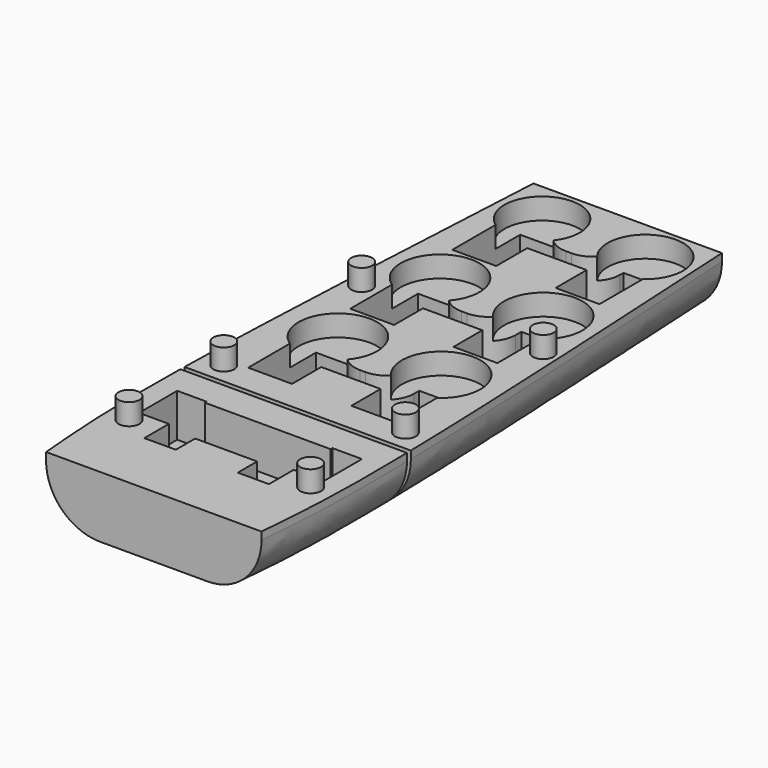
from build123d import *

# Parameters (mm, degrees)
F1_DEPTH  = 29
F2_R      = 25.4
F3_W      = 20.7
F3_H      = 40
F4_DEPTH  = 23
F5_R      = 17.78
F5_R_2    = 18.542
F6_DEPTH  = 10
F8_W      = 47.9230657122
F8_H      = 7
F8_W_2    = 50.6153731757
F8_W_3    = 51.6922955662
F9_DEPTH  = 20
F10_R     = 12.7
F11_W     = 137.5804170966
F11_H     = 2.3604482412
F12_DEPTH = 508
F13_R     = 4.953
F14_DEPTH = 10
F15_W     = 14.8590133688
F15_H     = 11.43
F16_DEPTH = 20.32


with BuildPart() as f1:
    # F0 (on Top) → F1 (new body)
    with BuildSketch(Plane.XY):
        with BuildLine():
            Line((44.45, 139.7), (-44.45, 139.7))
            add(Edge.make_bspline(
                [(-44.45, 139.7), (-49.1512728397, 53.7712988346), (-56.2494431916, -75.9673017068), (-52.1756359634, -123.6115688092), (-50.8, -139.7)],
                knots=[0, 0, 0, 0, 0.6623217825, 1, 1, 1, 1], degree=3))
            Line((-50.8, -139.7), (0, -139.7))
            Line((0, -139.7), (50.8, -139.7))
            add(Edge.make_bspline(
                [(44.45, 139.7), (49.1512728397, 53.7712988346), (56.2494431916, -75.9673017068), (52.1756359634, -123.6115688092), (50.8, -139.7)],
                knots=[0, 0, 0, 0, 0.6623217825, 1, 1, 1, 1], degree=3))
        make_face()
    extrude(amount=F1_DEPTH)

    # F2
    f2_edges = [f1.edges().sort_by_distance(p)[0] for p in [
        (-51.556499, 0.028981, 0),
        (51.556499, 0.028981, 0),
    ]]
    fillet(f2_edges, radius=F2_R)

    # F3 (on face) → F4 (cut)
    with BuildSketch(Plane.XY.offset(29)):
        with Locations((-24.35, 99.7)):
            Rectangle(F3_W, F3_H)
        with Locations((24.35, 99.7)):
            Rectangle(F3_W, F3_H)
        with Locations((24.35, 39.5)):
            Rectangle(F3_W, F3_H)
        with Locations((-24.35, 39.5)):
            Rectangle(F3_W, F3_H)
        with Locations((-24.35, -20.7)):
            Rectangle(F3_W, F3_H)
        with Locations((24.35, -20.7)):
            Rectangle(F3_W, F3_H)
    extrude(amount=-F4_DEPTH, mode=Mode.SUBTRACT)

    # F5 (on face) → F6 (cut)
    with BuildSketch(Plane.XY.offset(29)):
        with Locations((-24.35, 119.7)):
            Circle(F5_R)
        with Locations((24.35, 119.7)):
            Circle(F5_R)
        with Locations((-24.35, 59.5)):
            Circle(F5_R_2)
        with Locations((24.35, 59.5)):
            Circle(F5_R_2)
        with Locations((-24.35, -0.7)):
            Circle(F5_R_2)
        with Locations((24.35, -0.7)):
            Circle(F5_R_2)
    extrude(amount=-F6_DEPTH, mode=Mode.SUBTRACT)

    # F8 (on face) → F9 (cut)
    with BuildSketch(Plane.XY.offset(29)):
        with Locations((1.6425129671, -19.9748144062)):
            Rectangle(F8_W, F8_H)
        with Locations((0.2963592354, 39.9781099918)):
            Rectangle(F8_W_2, F8_H)
        with Locations((-0.2421019599, 101.487640901)):
            Rectangle(F8_W_3, F8_H)
    extrude(amount=-F9_DEPTH, mode=Mode.SUBTRACT)

    # F10
    f10_edges = [f1.edges().sort_by_distance(p)[0] for p in [
        (-14, 104.987641, 19),
        (14, 104.987641, 19),
        (14, 43.47811, 19),
        (-14, 43.47811, 19),
        (-14, -16.474814, 19),
        (14, -16.474814, 19),
    ]]
    fillet(f10_edges, radius=F10_R)

    # F11 (on face) → F12 (cut)
    with BuildSketch(Plane.XY.offset(29)):
        with Locations((3.4671761096, -56.0606457293)):
            Rectangle(F11_W, F11_H)
    extrude(amount=-F12_DEPTH, mode=Mode.SUBTRACT)

    # F13 (on face) → F14 (join)
    with BuildSketch(Plane.XY.offset(29)):
        with Locations((-42.828, -44.8804216087)):
            Circle(F13_R)
        with Locations((42.828, -44.8804216087)):
            Circle(F13_R)
        with Locations((-42.828, 36.3995783913)):
            Circle(F13_R)
        with Locations((42.828, 36.3995783913)):
            Circle(F13_R)
        with Locations((-42.828, -100.7604216087)):
            Circle(F13_R)
        with Locations((42.828, -100.7604216087)):
            Circle(F13_R)
    extrude(amount=F14_DEPTH)

    # F15 (on face) → F16 (cut)
    with BuildSketch(Plane.XY.offset(29)):
        Polygon((-14.6225577989, -84.5451231204), (-14.6225577989, -97.0312680207), (0, -97.0312680207), (0, -79.2316000067), (-14.6225577989, -79.2316000067), align=None)
        Polygon((-29.4815711677, -97.0312680207), (-14.6225577989, -97.0312680207), (-14.6225577989, -84.5451231204), (-14.6225577989, -79.2316000067), (-29.6225577989, -79.2316000067), (-29.6225577989, -84.5451231204), (-29.4815711677, -84.5451231204), (-29.4815711677, -93.9431231204), align=None)
        with Locations((-22.0520644833, -102.7462680207)):
            Rectangle(F15_W, F15_H)
        Polygon((0, -79.2316000067), (0, -97.0312680207), (14.6225577989, -97.0312680207), (14.6225577989, -84.5451231204), (14.6225577989, -79.2316000067), (29.6225577989, -79.2316000067), (29.6225577989, -72.4693636499), (0, -72.4693636499), align=None)
        Polygon((-14.6225577989, -79.2316000067), (0, -79.2316000067), (0, -72.4693636499), (-29.6225577989, -72.4693636499), (-29.6225577989, -79.2316000067), align=None)
        Polygon((14.6225577989, -84.5451231204), (14.6225577989, -97.0312680207), (29.2763970792, -97.0312680207), (29.2763970792, -93.9431231204), (29.2763970792, -84.5451231204), (29.6225577989, -84.5451231204), (29.6225577989, -79.2316000067), (14.6225577989, -79.2316000067), align=None)
        Polygon((29.2763970792, -97.0312680207), (14.6225577989, -97.0312680207), (14.6225577989, -108.4612680207), (29.3227639049, -108.4612680207), (29.3227639049, -97.0312680207), align=None)
        Polygon((-43.5663089156, -93.9431231204), (-29.4815711677, -93.9431231204), (-29.4815711677, -84.5451231204), (-29.6225577989, -84.5451231204), (-43.5663089156, -84.5451231204), align=None)
        Polygon((-29.6225577989, -84.5451231204), (-29.6225577989, -79.2316000067), (-29.6225577989, -72.4693636499), (-29.6225577989, -71.4178110562), (-43.5663089156, -71.4178110562), (-43.5663089156, -84.5451231204), align=None)
        Polygon((29.6225577989, -71.4178110562), (29.6225577989, -72.4693636499), (29.6225577989, -79.2316000067), (29.6225577989, -84.5451231204), (43.5663089156, -84.5451231204), (43.5663089156, -71.4178110562), align=None)
        Polygon((29.2763970792, -84.5451231204), (29.2763970792, -93.9431231204), (43.5663089156, -93.9431231204), (43.5663089156, -84.5451231204), (29.6225577989, -84.5451231204), align=None)
    extrude(amount=-F16_DEPTH, mode=Mode.SUBTRACT)


solid = f1.part
